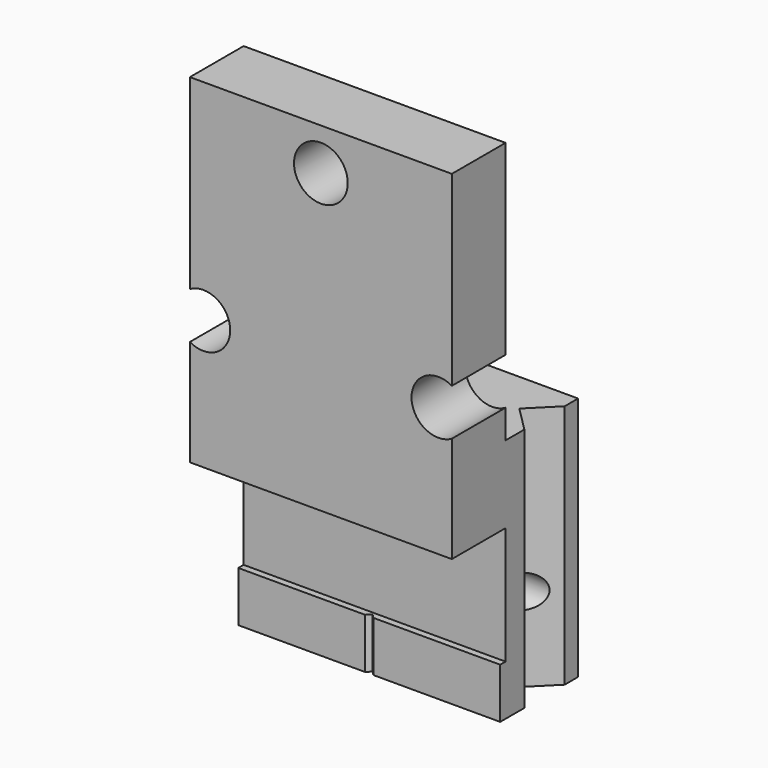
from build123d import *

# Parameters (mm, degrees)
F0_R           = 1.6
F1_DEPTH       = 4
F2_W           = 15.6
F2_H           = 14.6
F3_DEPTH       = 5.4
F4_W           = 15.6
F4_H           = 3
F5_DEPTH       = 0.4
F8_D           = 2
F8_DEPTH       = 5
F8_TIP         = 0.600860619
F8_ON_F7_D     = 2
F8_ON_F7_DEPTH = 5
F8_ON_F7_TIP   = 0.600860619
F10_DEPTH      = 25
F12_DEPTH      = 3


with BuildPart() as f1:
    # F0 (on Front) → F1 (new body)
    with BuildSketch(Plane.XZ):
        with BuildLine():
            Line((-7.8, 6.3143593539), (-7.8, 0))
            Line((-7.8, 0), (7.8, 0))
            Line((7.8, 0), (7.8, 6.3143593539))
            ThreePointArc((7.8, 6.3143593539), (5.4, 7.7), (7.8, 9.0856406461))
            Line((7.8, 9.0856406461), (7.8, 20.2))
            Line((7.8, 20.2), (-7.8, 20.2))
            Line((-7.8, 20.2), (-7.8, 9.0856406461))
            ThreePointArc((-7.8, 9.0856406461), (-6.2, 9.0856406461), (-5.4, 7.7))
            ThreePointArc((-5.4, 7.7), (-6.2, 6.3143593539), (-7.8, 6.3143593539))
        make_face()
        with Locations((0, 17.7)):
            Circle(F0_R, mode=Mode.SUBTRACT)
    extrude(amount=F1_DEPTH)

    # F2 (on Front) → F3 (join)
    with BuildSketch(Plane.XZ):
        with Locations((0, -2.7)):
            Rectangle(F2_W, F2_H)
    extrude(amount=-F3_DEPTH)

    # F4 (on face) → F5 (join)
    with BuildSketch(Plane.XZ):
        with Locations((0, -8.5)):
            Rectangle(F4_W, F4_H)
        with Locations((0, -8.5)):
            Rectangle(F4_W, F4_H)
    extrude(amount=F5_DEPTH)

    # F8
    with Locations(Plane.YZ.offset(7.8)):
        with Locations((2.9, -5)):
            Hole(F8_D / 2, depth=F8_DEPTH)
            with Locations((0, 0, -(F8_DEPTH + F8_TIP / 2))):  # 118° drill point
                Cone(0, F8_D / 2, F8_TIP, mode=Mode.SUBTRACT)

    # F8 on F7
    with Locations(Plane(origin=(-7.8, 0, 0), x_dir=(0, -1, 0), z_dir=(-1, 0, 0))):
        with Locations((-2.9, -5)):
            Hole(F8_ON_F7_D / 2, depth=F8_ON_F7_DEPTH)
            with Locations((0, 0, -(F8_ON_F7_DEPTH + F8_ON_F7_TIP / 2))):  # 118° drill point
                Cone(0, F8_ON_F7_D / 2, F8_ON_F7_TIP, mode=Mode.SUBTRACT)

    # F9 (on face) → F10 (cut)
    with BuildSketch(Plane(origin=(0, 0, -10), x_dir=(1, 0, 0), z_dir=(0, 0, -1))):
        Polygon((-6.3, -2.9), (-7.8, -1.4), (-7.8, -4.4), align=None)
        Polygon((7.8, -4.4), (7.8, -1.4), (6.3, -2.9), align=None)
    extrude(amount=-F10_DEPTH, mode=Mode.SUBTRACT)

    # F11 (on face) → F12 (cut, through all)
    with BuildSketch(Plane(origin=(0, 0, -10), x_dir=(1, 0, 0), z_dir=(0, 0, -1))):
        Polygon((-0.25, 0.4), (0, 0.15), (0.25, 0.4), align=None)
    extrude(amount=-F12_DEPTH, mode=Mode.SUBTRACT)


solid = f1.part
